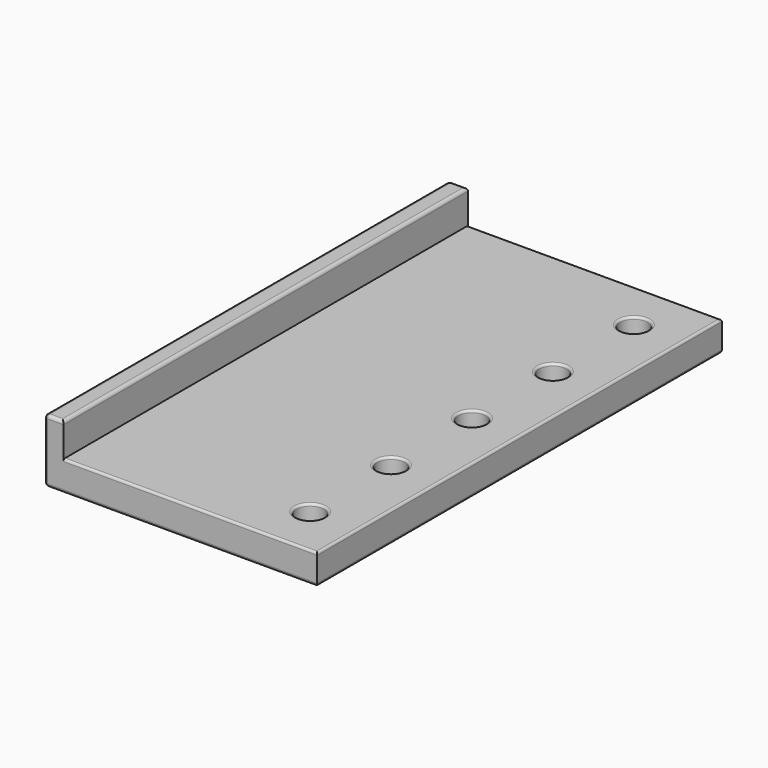
from build123d import *

# Parameters (mm, degrees)
F0_W     = 80
F0_H     = 159.5
F0_R     = 4.35
F1_DEPTH = 9.5
F2_W     = 6
F2_H     = 159.5
F3_DEPTH = 20
F4_R     = 1
F5_R     = 0.7


with BuildPart() as f1:
    # F0 (on Top) → F1 (new body)
    with BuildSketch(Plane.XY):
        with Locations((1.265751, 0)):
            Rectangle(F0_W, F0_H)
        with Locations((26.265751, -63.8)):
            Circle(F0_R, mode=Mode.SUBTRACT)
        with Locations((26.265751, -31.9)):
            Circle(F0_R, mode=Mode.SUBTRACT)
        with Locations((26.265751, 0)):
            Circle(F0_R, mode=Mode.SUBTRACT)
        with Locations((26.265751, 31.9)):
            Circle(F0_R, mode=Mode.SUBTRACT)
        with Locations((26.265751, 63.8)):
            Circle(F0_R, mode=Mode.SUBTRACT)
    extrude(amount=F1_DEPTH)

    # F2 (on Top) → F3 (join)
    with BuildSketch(Plane.XY):
        with Locations((-41.734249, 0)):
            Rectangle(F2_W, F2_H)
    extrude(amount=F3_DEPTH)

    # F4
    f4_edges = [f1.edges().sort_by_distance(p)[0] for p in [
        (-38.734249, 0, 20),
        (-41.734249, 79.75, 20),
        (-44.734249, 0, 20),
        (-41.734249, -79.75, 20),
        (-44.734249, 79.75, 10),
        (-44.734249, -79.75, 10),
        (-44.734249, 0, 0),
        (-1.734249, 79.75, 0),
        (-1.734249, -79.75, 0),
        (41.265751, 0, 0),
        (21.915751, -63.8, 0),
        (21.915751, -31.9, 0),
        (21.915751, 0, 0),
        (21.915751, 31.9, 0),
        (21.915751, 63.8, 0),
    ]]
    fillet(f4_edges, radius=F4_R)

    # F5
    f5_edges = [f1.edges().sort_by_distance(p)[0] for p in [
        (1.265751, -79.75, 9.5),
        (41.265751, 0, 9.5),
        (1.265751, 79.75, 9.5),
        (21.915751, 63.8, 9.5),
        (21.915751, 31.9, 9.5),
        (21.915751, 0, 9.5),
        (21.915751, -31.9, 9.5),
        (21.915751, -63.8, 9.5),
    ]]
    fillet(f5_edges, radius=F5_R)


solid = f1.part
